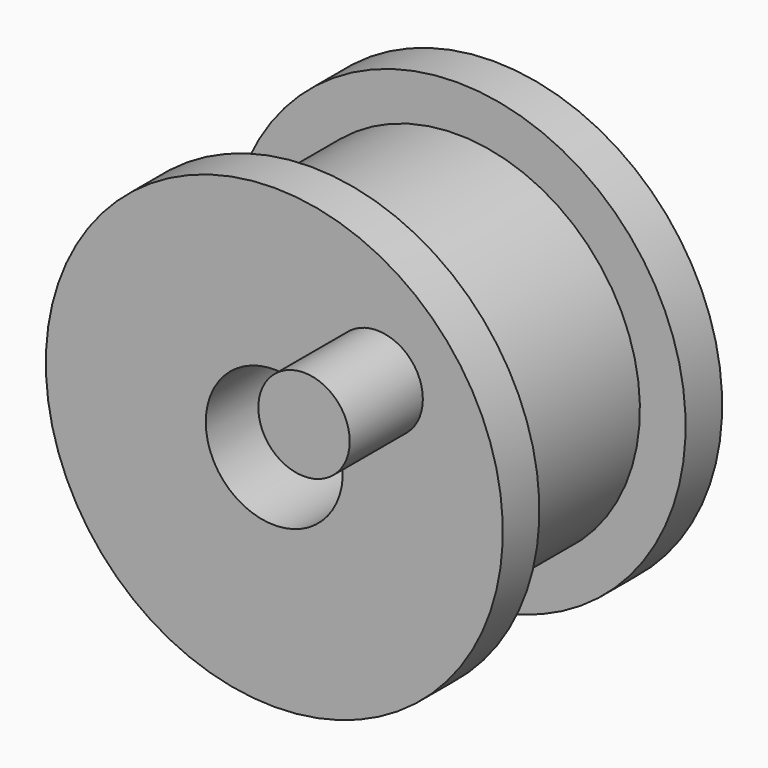
from build123d import *

# Parameters (mm, degrees)
F0_W     = 12.7
F0_H     = 12.7
F2_R     = 3.175
F3_DEPTH = 6.35
F4_D     = 9.525


with BuildPart() as f1:
    # F0 (on Right) → F1 (revolve)
    with BuildSketch(Plane.YZ):
        with Locations((32.215506, 6.008381)):
            Rectangle(F0_W, F0_H)
        Polygon((41.740506, 12.358381), (38.565506, 12.358381), (38.565506, -0.341619), (38.565506, -3.516619), (41.740506, -3.516619), align=None)
        Polygon((25.865506, -0.341619), (25.865506, 12.358381), (22.690506, 12.358381), (22.690506, -3.516619), (25.865506, -3.516619), align=None)
    revolve(axis=Axis((0, 32.215506, 12.358381), (0, 1, 0)))

    # F2 (on face) → F3 (join)
    with BuildSketch(Plane.XZ.offset(-22.690506)):
        with Locations((7.14375, 18.658576)):
            Circle(F2_R)
    extrude(amount=F3_DEPTH)

    # F4 (through all)
    with Locations(Plane.XZ.offset(-22.690506)):
        with Locations((0, 12.358381)):
            Hole(F4_D / 2)


solid = f1.part
